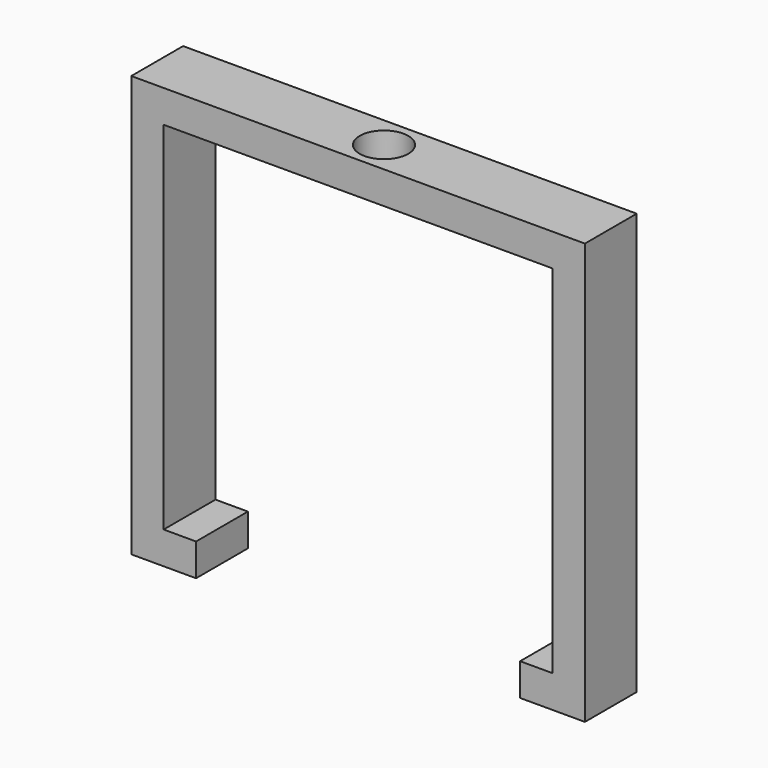
from build123d import *

# Parameters (mm, degrees)
F0_W     = 6.35
F0_H     = 6.35
F1_DEPTH = 6.35
F2_R     = 4.7625
F3_DEPTH = 152.4


with BuildPart() as f1:
    # F0 (on Front) → F1 (new body, symmetric)
    with BuildSketch(Plane.XZ):
        Polygon((-38.1127, -31.75), (-38.1127, 38.1), (38.1127, 38.1), (38.1127, -31.75), (38.1127, -38.1), (44.4627, -38.1), (44.4627, 44.45), (-44.4627, 44.45), (-44.4627, -38.1), (-38.1127, -38.1), align=None)
        with Locations((-34.9377, -34.925)):
            Rectangle(F0_W, F0_H)
        Polygon((-38.1127, -31.75), (-38.1127, 38.1), (38.1127, 38.1), (38.1127, -31.75), (38.1127, -38.1), (44.4627, -38.1), (44.4627, 44.45), (-44.4627, 44.45), (-44.4627, -38.1), (-38.1127, -38.1), align=None)
        with Locations((34.9377, -34.925)):
            Rectangle(F0_W, F0_H)
    extrude(amount=F1_DEPTH, both=True)

    # F2 (on Top) → F3 (cut)
    with BuildSketch(Plane.XY):
        Circle(F2_R)
    extrude(amount=F3_DEPTH, mode=Mode.SUBTRACT)


solid = f1.part
